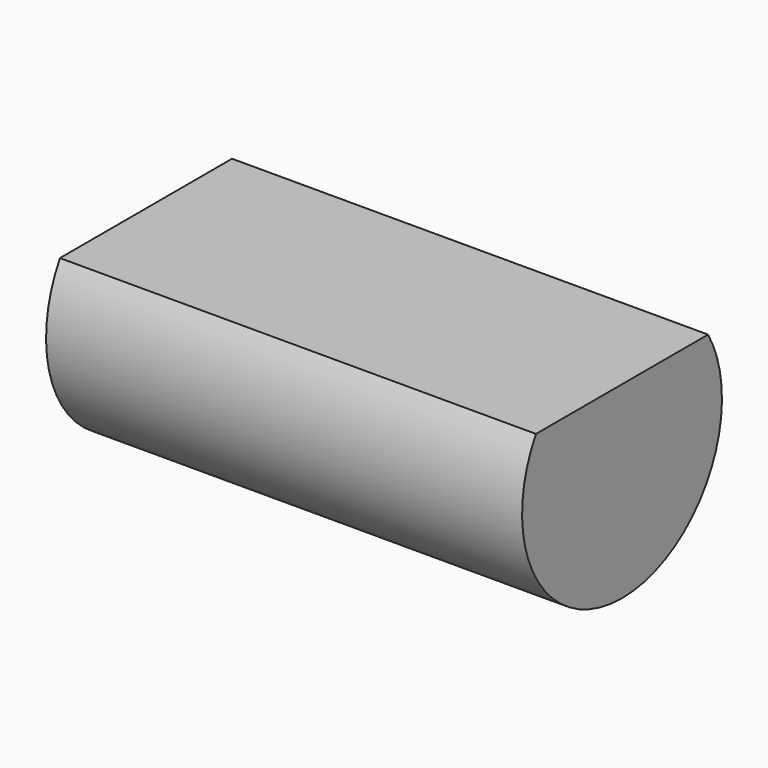
from build123d import *

# Parameters (mm, degrees)
F0_R     = 26.238745
F1_DEPTH = 100
F2_W     = 66.955648
F2_H     = 21.229839
F3_DEPTH = 100


with BuildPart() as f1:
    # F0 (on Right) → F1 (new body)
    with BuildSketch(Plane.YZ):
        Circle(F0_R)
    extrude(amount=F1_DEPTH)

    # F2 (on Right) → F3 (cut)
    with BuildSketch(Plane.YZ):
        with Locations((1.633063, 23.951614)):
            Rectangle(F2_W, F2_H)
    extrude(amount=F3_DEPTH, mode=Mode.SUBTRACT)


solid = f1.part
